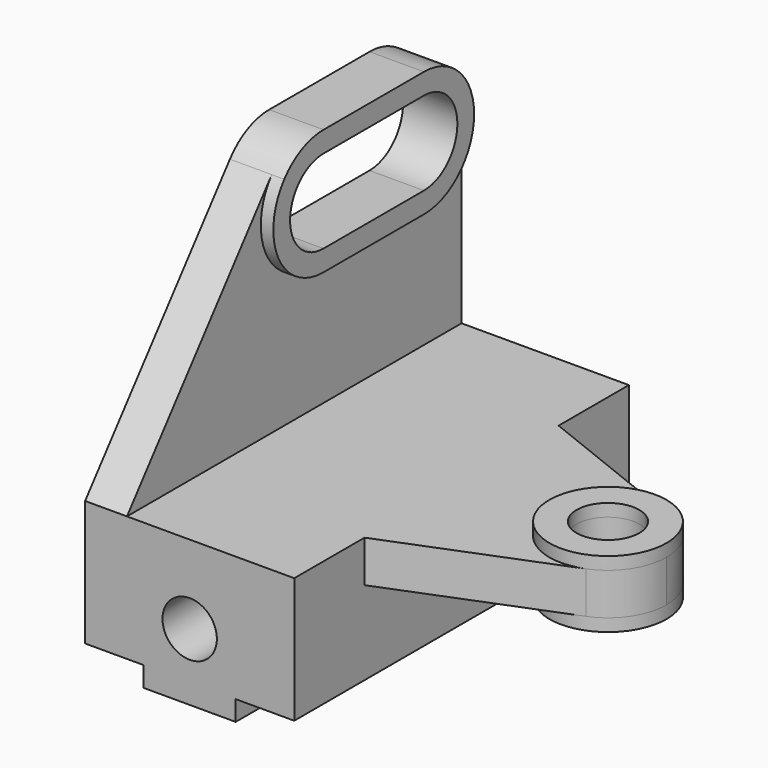
from build123d import *

# Parameters (mm, degrees)
F1_DEPTH  = 100
F3_DEPTH  = 10
F8_DEPTH  = 3
F10_DEPTH = 25
F12_DEPTH = 10
F14_R     = 14
F14_R_2   = 7.5
F15_DEPTH = 8
F16_R     = 7.5
F17_DEPTH = 25
F19_D     = 13


with BuildPart() as f1:
    # F0 (on Front) → F1 (new body)
    with BuildSketch(Plane.XZ):
        Polygon((50, 0), (0, 0), (0, -30), (14, -30), (14, -34.8), (36, -34.8), (36, -30), (50, -30), align=None)
    extrude(amount=F1_DEPTH)

    # F2 (on face) → F3 (join)
    with BuildSketch(Plane(origin=(0, 0, 0), x_dir=(0, -1, 0), z_dir=(-1, 0, 0))):
        with BuildLine():
            Line((43.2649507991, 54.3428379122), (0, 0))
            Line((0, 0), (100, 0))
            Line((100, 0), (100, 45))
            ThreePointArc((100, 45), (95.6066017178, 55.6066017178), (85, 60))
            Line((85, 60), (55, 60))
            ThreePointArc((55, 60), (48.4862671487, 58.5118941804), (43.2649507991, 54.3428379122))
        make_face()
    extrude(amount=-F3_DEPTH)


with BuildPart() as f5_1:
    # F5: instance of F1
    add(f1.part.mirror(Plane(origin=(22.8108581436, -50, -11.9144915301), x_dir=(1, 0, 0), z_dir=(0, 1, 0))))

    # F7 (on face) → F8 (join)
    with BuildSketch(Plane.YZ.offset(10)):
        with BuildLine():
            ThreePointArc((-15, 30), (-4.3933982822, 34.3933982822), (0, 45))
            ThreePointArc((0, 45), (-4.3933982822, 55.6066017178), (-15, 60))
            Line((-15, 60), (-45, 60))
            ThreePointArc((-45, 60), (-51.5137328513, 58.5118941804), (-56.7350492009, 54.3428379122))
            ThreePointArc((-56.7350492009, 54.3428379122), (-58.5118941804, 38.4862671487), (-45, 30))
            Line((-45, 30), (-15, 30))
        make_face()
        with BuildLine():
            ThreePointArc((-45, 35), (-55, 45), (-45, 55))
            Line((-45, 55), (-15, 55))
            ThreePointArc((-15, 55), (-5, 45), (-15, 35))
            Line((-15, 35), (-45, 35))
        make_face(mode=Mode.SUBTRACT)
    extrude(amount=F8_DEPTH)

    # F9 (on face) → F10 (cut)
    with BuildSketch(Plane.YZ.offset(10)):
        with BuildLine():
            Line((-15, 55), (-45, 55))
            ThreePointArc((-45, 55), (-55, 45), (-45, 35))
            Line((-45, 35), (-15, 35))
            ThreePointArc((-15, 35), (-5, 45), (-15, 55))
        make_face()
    extrude(amount=-F10_DEPTH, mode=Mode.SUBTRACT)

    # F11 (on face) → F12 (join)
    with BuildSketch(Plane.XY):
        with BuildLine():
            Line((50, -50), (50, -79))
            Line((50, -79), (90.1775700039, -63.0074120737))
            ThreePointArc((90.1775700039, -63.0074120737), (99, -50), (90.1775700039, -36.9925879263))
            Line((90.1775700039, -36.9925879263), (50, -21))
            Line((50, -21), (50, -50))
        make_face()
    extrude(amount=-F12_DEPTH)

    # F14 (on mid) → F15 (join, symmetric)
    with BuildSketch(Plane(origin=(0, 0, -5), x_dir=(1, 0, 0), z_dir=(0, 0, -1))):
        with Locations((85, 50)):
            Circle(F14_R)
        with Locations((85, 50)):
            Circle(F14_R_2, mode=Mode.SUBTRACT)
    extrude(amount=F15_DEPTH, both=True)

    # F16 (on face) → F17 (cut)
    with BuildSketch(Plane.XY):
        with Locations((85, -50)):
            Circle(F16_R)
    extrude(amount=-F17_DEPTH, mode=Mode.SUBTRACT)

    # F19 (through all)
    with Locations(Plane.XZ.offset(100)):
        with Locations((25, -18.8)):
            Hole(F19_D / 2)


solid = f5_1.part
